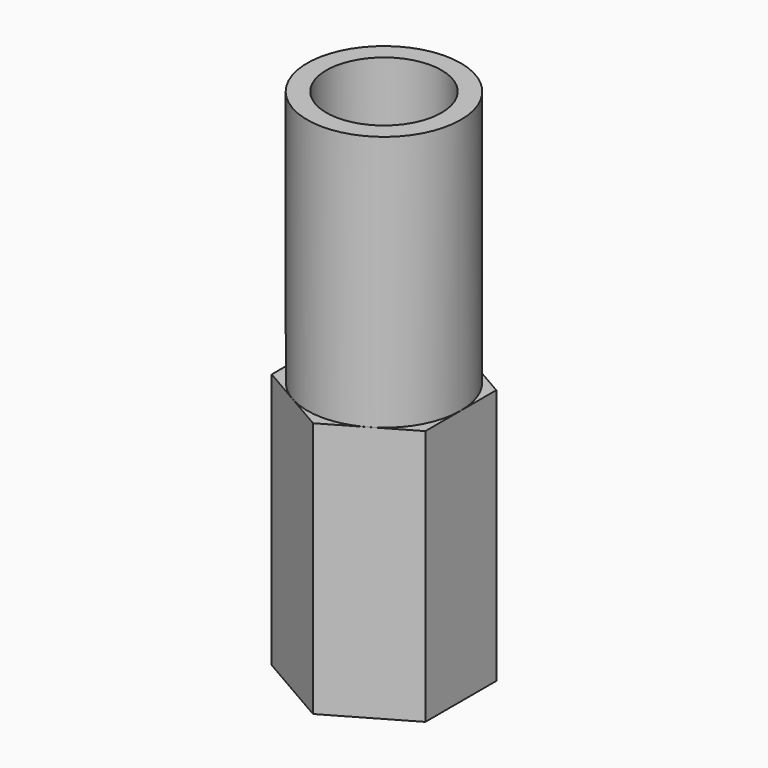
from build123d import *

# Parameters (mm, degrees)
F1_DEPTH = 20
F2_W     = 8
F2_H     = 8
F2_R     = 3
F3_DEPTH = 10
F4_R     = 2.25
F5_DEPTH = 18.5


with BuildPart() as f1:
    # F0 (on Top) → F1 (new body)
    with BuildSketch(Plane.XY):
        Polygon((0, -3.464102), (3, -1.732051), (3, 1.732051), (0, 3.464102), (-3, 1.732051), (-3, -1.732051), align=None)
    extrude(amount=F1_DEPTH)

    # F2 (on face) → F3 (cut)
    with BuildSketch(Plane.XY.offset(20)):
        Rectangle(F2_W, F2_H)
        Circle(F2_R, mode=Mode.SUBTRACT)
    extrude(amount=-F3_DEPTH, mode=Mode.SUBTRACT)

    # F4 (on face) → F5 (cut)
    with BuildSketch(Plane.XY.offset(20)):
        Circle(F4_R)
    extrude(amount=-F5_DEPTH, mode=Mode.SUBTRACT)


solid = f1.part
